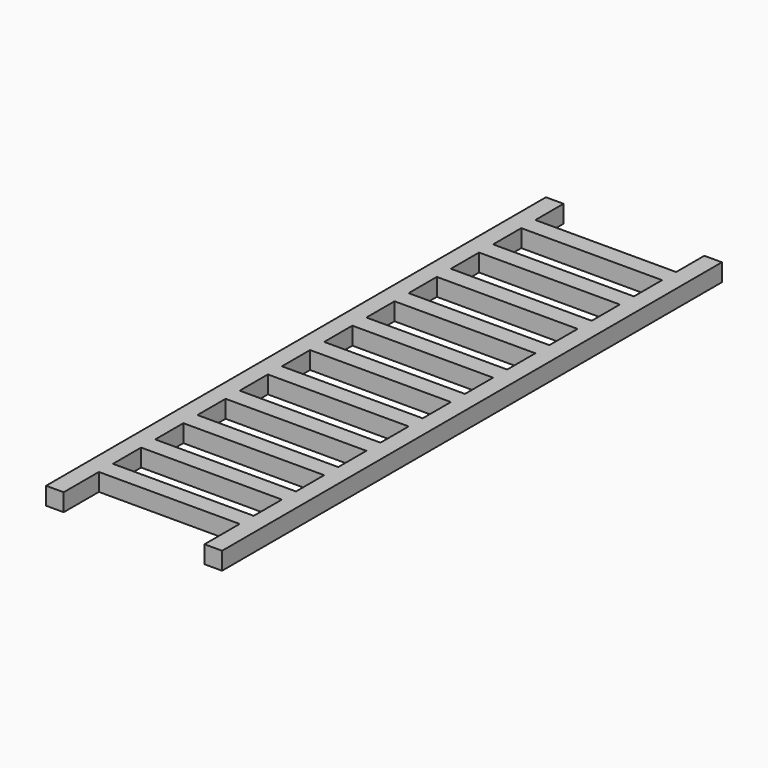
from build123d import *

# Parameters (mm, degrees)
F0_W     = 16
F0_H     = 2
F1_DEPTH = 2


with BuildPart() as f1:
    # F0 (on Top) → F1 (new body)
    with BuildSketch(Plane.XY):
        Polygon((8, 35.5), (8, 31.5), (8, 29.5), (8, 25.5), (8, 23.5), (8, 19.5), (8, 17.5), (8, 13.5), (8, 11.5), (8, 7.5), (8, 5.5), (8, 1.5), (8, -0.5), (8, -4.5), (8, -6.5), (8, -10.5), (8, -12.5), (8, -16.5), (8, -18.5), (8, -22.5), (8, -24.5), (8, -28.5), (8, -30.5), (8, -35.5), (10, -35.5), (10, 35.5), align=None)
        with Locations((0, -29.5)):
            Rectangle(F0_W, F0_H)
        with Locations((0, -23.5)):
            Rectangle(F0_W, F0_H)
        Polygon((-8, 35.5), (-10, 35.5), (-10, -35.5), (-8, -35.5), (-8, -30.5), (-8, -28.5), (-8, -24.5), (-8, -22.5), (-8, -18.5), (-8, -16.5), (-8, -12.5), (-8, -10.5), (-8, -6.5), (-8, -4.5), (-8, -0.5), (-8, 1.5), (-8, 5.5), (-8, 7.5), (-8, 11.5), (-8, 13.5), (-8, 17.5), (-8, 19.5), (-8, 23.5), (-8, 25.5), (-8, 29.5), (-8, 31.5), align=None)
        with Locations((0, -17.5)):
            Rectangle(F0_W, F0_H)
        with Locations((0, -11.5)):
            Rectangle(F0_W, F0_H)
        with Locations((0, -5.5)):
            Rectangle(F0_W, F0_H)
        with Locations((0, 0.5)):
            Rectangle(F0_W, F0_H)
        with Locations((0, 6.5)):
            Rectangle(F0_W, F0_H)
        with Locations((0, 12.5)):
            Rectangle(F0_W, F0_H)
        with Locations((0, 18.5)):
            Rectangle(F0_W, F0_H)
        with Locations((0, 30.5)):
            Rectangle(F0_W, F0_H)
        with Locations((0, 24.5)):
            Rectangle(F0_W, F0_H)
    extrude(amount=F1_DEPTH)


solid = f1.part
